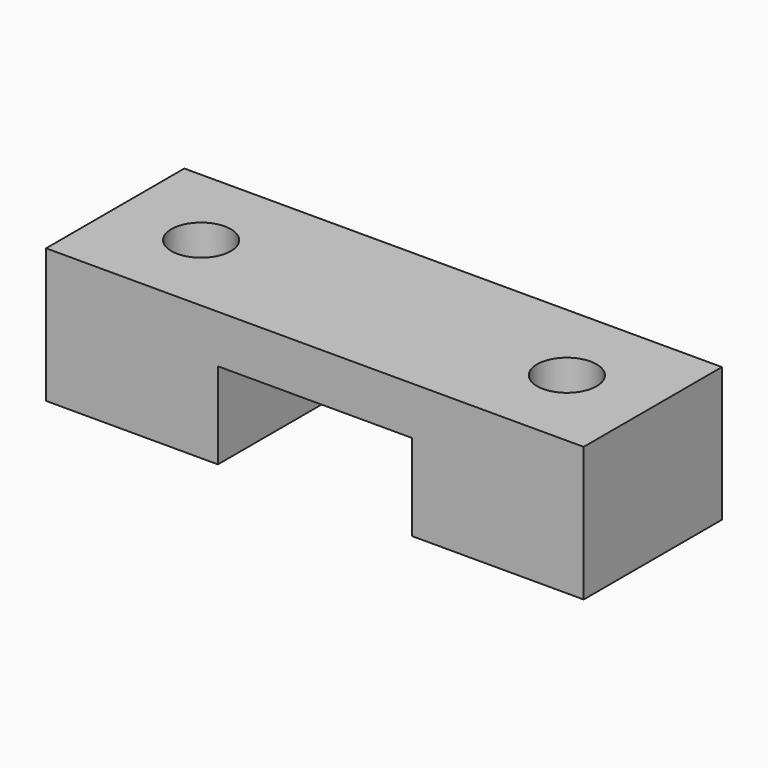
from build123d import *

# Parameters (mm, degrees)
F1_DEPTH = 4.5
F2_R     = 1.55
F3_DEPTH = 7


with BuildPart() as f1:
    # F0 (on Front) → F1 (new body, symmetric)
    with BuildSketch(Plane.XZ):
        Polygon((14, 3.5), (0, 3.5), (-14, 3.5), (-14, -3.5), (-5.05, -3.5), (-5.05, 1), (0, 1), (5.05, 1), (5.05, -3.5), (14, -3.5), align=None)
    extrude(amount=F1_DEPTH, both=True)

    # F2 (on face) → F3 (cut, through all)
    with BuildSketch(Plane(origin=(0, 0, -3.5), x_dir=(1, 0, 0), z_dir=(0, 0, -1))):
        with Locations((9.525, 0)):
            Circle(F2_R)
        with Locations((-9.525, 0)):
            Circle(F2_R)
    extrude(amount=-F3_DEPTH, mode=Mode.SUBTRACT)


solid = f1.part
